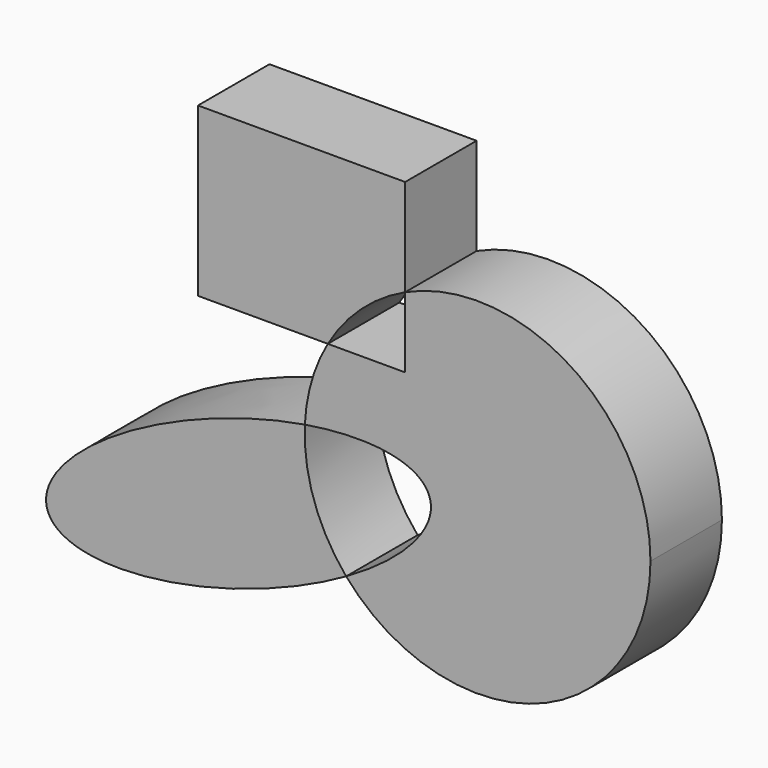
from build123d import *

# Parameters (mm, degrees)
F1_DEPTH = 25.4


with BuildPart() as f1:
    # F0 (on Front) → F1 (new body)
    with BuildSketch(Plane.XZ):
        with BuildLine():
            ThreePointArc((-10.0966715076, -49.6915544474), (-19.2221133603, -33.7221838937), (-21.8410624019, -15.5168113129))
            add(Edge.make_bspline(
                [(-21.8410624019, -15.5168113129), (-105.8196860966, -29.3638972747), (-95.0377107933, -60.7381285816), (-84.25573549, -92.1123598885), (-10.0966715076, -49.6915544474)],
                knots=[1.0936579361, 1.0936579361, 1.0936579361, 3.1372411639, 3.1372411639, 5.1808243917, 5.1808243917, 5.1808243917], degree=2, weights=[1, 0.5218384635, 1, 0.5218384635, 1]))
        make_face()
    extrude(amount=F1_DEPTH)


with BuildPart() as f1b:
    # F0 (on Front) → F1, piece 2 (new body)
    with BuildSketch(Plane.XZ):
        with BuildLine():
            Line((6.6801547073, 6.8319737911), (-15.3106102166, 6.8319737911))
            ThreePointArc((-15.3106102166, 6.8319737911), (-19.9177365411, -3.9503072765), (-21.8410624019, -15.5168113129))
            add(Edge.make_bspline(
                [(13.5911954567, -21.9925157726), (9.4321632775, -10.3602247289), (-21.8410624019, -15.5168113129)],
                knots=[0, 0, 0, 1.0936579361, 1.0936579361, 1.0936579361], degree=2, weights=[1, 0.8541776909, 1]))
            add(Edge.make_bspline(
                [(-10.0966715076, -49.6915544474), (17.7910829978, -33.7390741364), (13.5911954567, -21.9925157726)],
                knots=[5.1808243917, 5.1808243917, 5.1808243917, 6.2831853072, 6.2831853072, 6.2831853072], degree=2, weights=[1, 0.851906918, 1]))
            ThreePointArc((-10.0966715076, -49.6915544474), (44.3081827968, -63.8696064391), (76.4502558698, -17.7416055208))
            ThreePointArc((76.4502558698, -17.7416055208), (53.783080596, 23.6749028729), (6.6801547073, 26.9063692804))
            Line((6.6801547073, 26.9063692804), (6.6801547073, 6.8319737911))
        make_face()
    extrude(amount=F1_DEPTH)


with BuildPart() as f1c:
    # F0 (on Front) → F1, piece 3 (new body)
    with BuildSketch(Plane.XZ):
        with BuildLine():
            Line((-52.2266402841, 54.5039623976), (-52.2266402841, 6.8319737911))
            Line((-52.2266402841, 6.8319737911), (-15.3106102166, 6.8319737911))
            ThreePointArc((-15.3106102166, 6.8319737911), (-5.8712528687, 18.5737400502), (6.6801547073, 26.9063692804))
            Line((6.6801547073, 26.9063692804), (6.6801547073, 54.5039623976))
            Line((6.6801547073, 54.5039623976), (-52.2266402841, 54.5039623976))
        make_face()
    extrude(amount=F1_DEPTH)


solid = Compound([f1.part, f1b.part, f1c.part])
